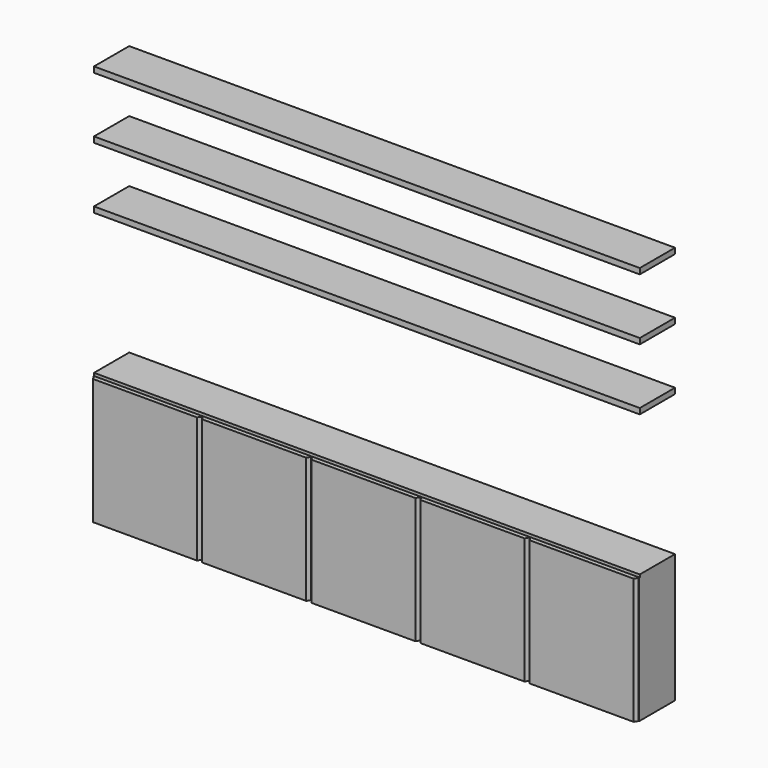
from build123d import *

# Parameters (mm, degrees)
F0_W     = 250
F0_H     = 32
F1_DEPTH = 3100
F2_W     = 32
F2_H     = 700
F2_W_2   = 16
F3_DEPTH = 250
F2_H_2   = 16
F2_W_3   = 572
F2_W_4   = 588
F4_DEPTH = 25
F6_DEPTH = 716


with BuildPart() as f1:
    # F0 (on Right) → F1 (new body)
    with BuildSketch(Plane.YZ):
        with Locations((-125, 716)):
            Rectangle(F0_W, F0_H)
    extrude(amount=F1_DEPTH)

    # F2 (on face) → F3 (join, through all)
    with BuildSketch(Plane.XZ.offset(250)):
        with Locations((16, 350)):
            Rectangle(F2_W, F2_H)
        with Locations((612, 350)):
            Rectangle(F2_W_2, F2_H)
        with Locations((628, 350)):
            Rectangle(F2_W_2, F2_H)
        with Locations((1232, 350)):
            Rectangle(F2_W_2, F2_H)
        with Locations((1248, 350)):
            Rectangle(F2_W_2, F2_H)
        with Locations((1868, 350)):
            Rectangle(F2_W_2, F2_H)
        with Locations((1852, 350)):
            Rectangle(F2_W_2, F2_H)
        with Locations((2488, 350)):
            Rectangle(F2_W_2, F2_H)
        with Locations((2472, 350)):
            Rectangle(F2_W_2, F2_H)
        with Locations((3084, 350)):
            Rectangle(F2_W, F2_H)
    extrude(amount=-F3_DEPTH)

    # F2 (on face) → F4 (join)
    with BuildSketch(Plane.XZ.offset(250)):
        with Locations((16, 350)):
            Rectangle(F2_W, F2_H)
        with Locations((16, 708)):
            Rectangle(F2_W, F2_H_2)
        with Locations((318, 708)):
            Rectangle(F2_W_3, F2_H_2)
        with Locations((318, 350)):
            Rectangle(F2_W_3, F2_H)
        with Locations((612, 350)):
            Rectangle(F2_W_2, F2_H)
        with Locations((612, 708)):
            Rectangle(F2_W_2, F2_H_2)
        with Locations((930, 350)):
            Rectangle(F2_W_4, F2_H)
        with Locations((628, 350)):
            Rectangle(F2_W_2, F2_H)
        with Locations((628, 708)):
            Rectangle(F2_W_2, F2_H_2)
        with Locations((930, 708)):
            Rectangle(F2_W_4, F2_H_2)
        with Locations((1232, 708)):
            Rectangle(F2_W_2, F2_H_2)
        with Locations((1232, 350)):
            Rectangle(F2_W_2, F2_H)
        with Locations((1248, 350)):
            Rectangle(F2_W_2, F2_H)
        with Locations((1248, 708)):
            Rectangle(F2_W_2, F2_H_2)
        with Locations((1550, 708)):
            Rectangle(F2_W_4, F2_H_2)
        with Locations((1550, 350)):
            Rectangle(F2_W_4, F2_H)
        with Locations((1852, 708)):
            Rectangle(F2_W_2, F2_H_2)
        with Locations((1852, 350)):
            Rectangle(F2_W_2, F2_H)
        with Locations((1868, 350)):
            Rectangle(F2_W_2, F2_H)
        with Locations((1868, 708)):
            Rectangle(F2_W_2, F2_H_2)
        with Locations((2170, 708)):
            Rectangle(F2_W_4, F2_H_2)
        with Locations((2170, 350)):
            Rectangle(F2_W_4, F2_H)
        with Locations((2472, 708)):
            Rectangle(F2_W_2, F2_H_2)
        with Locations((2472, 350)):
            Rectangle(F2_W_2, F2_H)
        with Locations((2488, 350)):
            Rectangle(F2_W_2, F2_H)
        with Locations((2488, 708)):
            Rectangle(F2_W_2, F2_H_2)
        with Locations((2782, 708)):
            Rectangle(F2_W_3, F2_H_2)
        with Locations((2782, 350)):
            Rectangle(F2_W_3, F2_H)
        with Locations((3084, 350)):
            Rectangle(F2_W, F2_H)
        with Locations((3084, 708)):
            Rectangle(F2_W, F2_H_2)
    extrude(amount=F4_DEPTH)

    # F5 (on face) → F6 (cut, through all)
    with BuildSketch(Plane.XY.offset(716)):
        Polygon((14.4337567297, -275), (2.8867513459, -255), (0, -255), (0, -275), align=None)
        Polygon((634.4337567297, -275), (622.8867513459, -255), (617.1132486541, -255), (605.5662432703, -275), align=None)
        Polygon((1254.4337567297, -275), (1242.8867513459, -255), (1237.1132486541, -255), (1225.5662432703, -275), align=None)
        Polygon((1874.4337567297, -275), (1862.8867513459, -255), (1857.1132486541, -255), (1845.5662432703, -275), align=None)
        Polygon((2494.4337567297, -275), (2482.8867513459, -255), (2477.1132486541, -255), (2465.5662432703, -275), align=None)
        Polygon((3100, -255), (3097.1132486541, -255), (3085.5662432703, -275), (3100, -275), align=None)
    extrude(amount=-F6_DEPTH, mode=Mode.SUBTRACT)


with BuildPart() as f1b:
    # F0 (on Right) → F1, piece 2 (new body)
    with BuildSketch(Plane.YZ):
        with Locations((-125, 1548)):
            Rectangle(F0_W, F0_H)
    extrude(amount=F1_DEPTH)


with BuildPart() as f1c:
    # F0 (on Right) → F1, piece 3 (new body)
    with BuildSketch(Plane.YZ):
        with Locations((-125, 2248)):
            Rectangle(F0_W, F0_H)
    extrude(amount=F1_DEPTH)


with BuildPart() as f1d:
    # F0 (on Right) → F1, piece 4 (new body)
    with BuildSketch(Plane.YZ):
        with Locations((-125, 1898)):
            Rectangle(F0_W, F0_H)
    extrude(amount=F1_DEPTH)


solid = Compound([f1.part, f1b.part, f1c.part, f1d.part])
